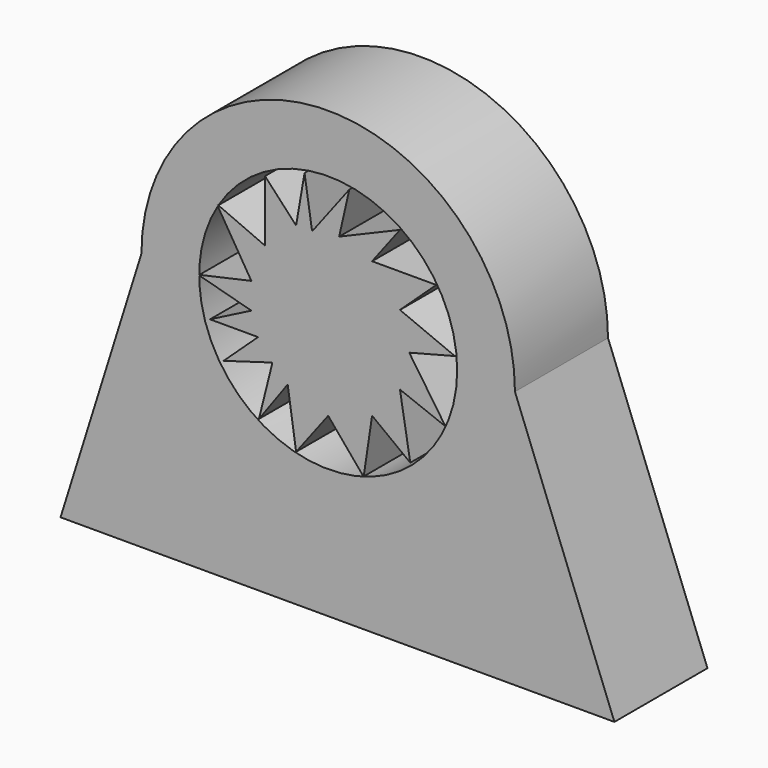
from build123d import *

# Parameters (mm, degrees)
F0_R     = 28.169514
F1_DEPTH = 25.4
F2_R     = 17.013405
F2_R_2   = 12.817933
F3_DEPTH = 25.4
F5_DEPTH = 25.4
F6_DEPTH = 25.4


with BuildPart() as f1:
    # F0 (on Front) → F1 (new body)
    with BuildSketch(Plane.XZ):
        with BuildLine():
            ThreePointArc((-40.780358, 0), (0, -40.780358), (40.780358, 0))
            ThreePointArc((40.780358, 0), (0, 40.780358), (-40.780358, 0))
        make_face()
        Circle(F0_R, mode=Mode.SUBTRACT)
        with BuildLine():
            Line((62.49629, -56.412581), (40.780358, 0))
            ThreePointArc((40.780358, 0), (0, -40.780358), (-40.780358, 0))
            Line((-40.780358, 0), (-58.440484, -56.412581))
            Line((-58.440484, -56.412581), (62.49629, -56.412581))
        make_face()
    extrude(amount=F1_DEPTH)


with BuildPart() as f3:
    # F2 (on Front) → F3 (new body)
    with BuildSketch(Plane.XZ):
        Circle(F2_R)
        Circle(F2_R_2, mode=Mode.SUBTRACT)
    extrude(amount=F3_DEPTH)


with BuildPart() as f5:
    # F4 (on Front) → F5 (new body)
    with BuildSketch(Plane.XZ):
        Polygon((-12.167419, -11.614354), (-15.117097, -23.413066), (-8.849032, -14.748388), (-7.005484, -27.100163), (0, -17.88242), (7.742902, -27.100163), (9.586452, -14.748388), (17.925423, -21.086006), (15.67016, -7.742903), (25.625324, -11.614354), (17.698064, 0), (27.653225, 2.580968), (15.67016, 7.558548), (23.597419, 14.932741), (9.586452, 14.932741), (15.67016, 22.937621), (2.396613, 17.329356), (4.60887, 27.100163), (-3.512091, 16.414687), (-5.161935, 27.100163), (-7.005484, 16.407581), (-13.787432, 23.698177), (-13.787432, 10.323871), (-24.334839, 14.932741), (-16.77629, 2.580968), (-28.390646, 0), (-16.77629, -3.134032), (-25.809677, -7.742903), (-15.301452, -7.742903), (-22.83235, -14.748388), align=None)
    extrude(amount=F5_DEPTH)


with BuildPart() as f6:
    # F4 (on Front) → F6 (new body)
    with BuildSketch(Plane.XZ):
        Polygon((-12.167419, -11.614354), (-15.117097, -23.413066), (-8.849032, -14.748388), (-7.005484, -27.100163), (0, -17.88242), (7.742902, -27.100163), (9.586452, -14.748388), (17.925423, -21.086006), (15.67016, -7.742903), (25.625324, -11.614354), (17.698064, 0), (27.653225, 2.580968), (15.67016, 7.558548), (23.597419, 14.932741), (9.586452, 14.932741), (15.67016, 22.937621), (2.396613, 17.329356), (4.60887, 27.100163), (-3.512091, 16.414687), (-5.161935, 27.100163), (-7.005484, 16.407581), (-13.787432, 23.698177), (-13.787432, 10.323871), (-24.334839, 14.932741), (-16.77629, 2.580968), (-28.390646, 0), (-16.77629, -3.134032), (-25.809677, -7.742903), (-15.301452, -7.742903), (-22.83235, -14.748388), align=None)
    extrude(amount=F6_DEPTH)


solid = Compound([f1.part, f3.part, f5.part, f6.part])
